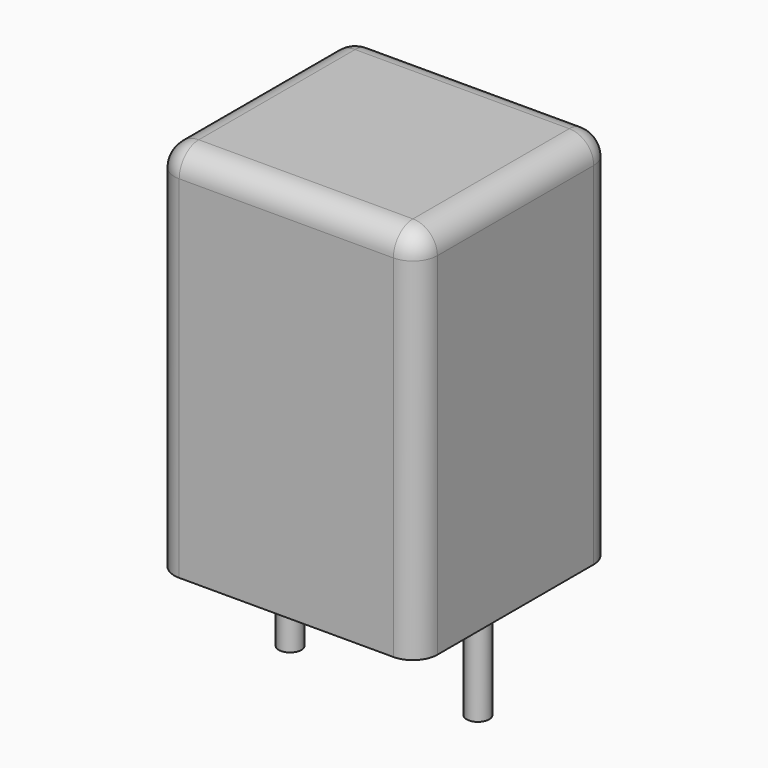
from build123d import *

# Parameters (mm, degrees)
SKETCH_W     = 7
SKETCH_H     = 6.5
PAD_DEPTH    = 10
FILLET_R     = 0.65
SKETCH001_R  = 0.3
PAD001_DEPTH = 3.2


with BuildPart() as fillet_body:
    # Sketch → Pad (new body)
    with BuildSketch(Plane.XY.offset(0.1)):
        with Locations((2.5, 0)):
            Rectangle(SKETCH_W, SKETCH_H)
    extrude(amount=PAD_DEPTH)

    # Fillet
    fillet_edges = [fillet_body.edges().sort_by_distance(p)[0] for p in [
        (-1, 0, 10.1),
        (-1, -3.25, 5.1),
        (2.5, -3.25, 10.1),
        (6, -3.25, 5.1),
        (6, 0, 10.1),
        (6, 3.25, 5.1),
        (2.5, 3.25, 10.1),
        (-1, 3.25, 5.1),
    ]]
    fillet(fillet_edges, radius=FILLET_R)


with BuildPart() as pad001:
    # Sketch001 → Pad001 (new body)
    with BuildSketch(Plane.XY.offset(0.5)):
        Circle(SKETCH001_R)
        with Locations((5, 0)):
            Circle(SKETCH001_R)
    extrude(amount=-PAD001_DEPTH)


solid = Compound([fillet_body.part, pad001.part])
